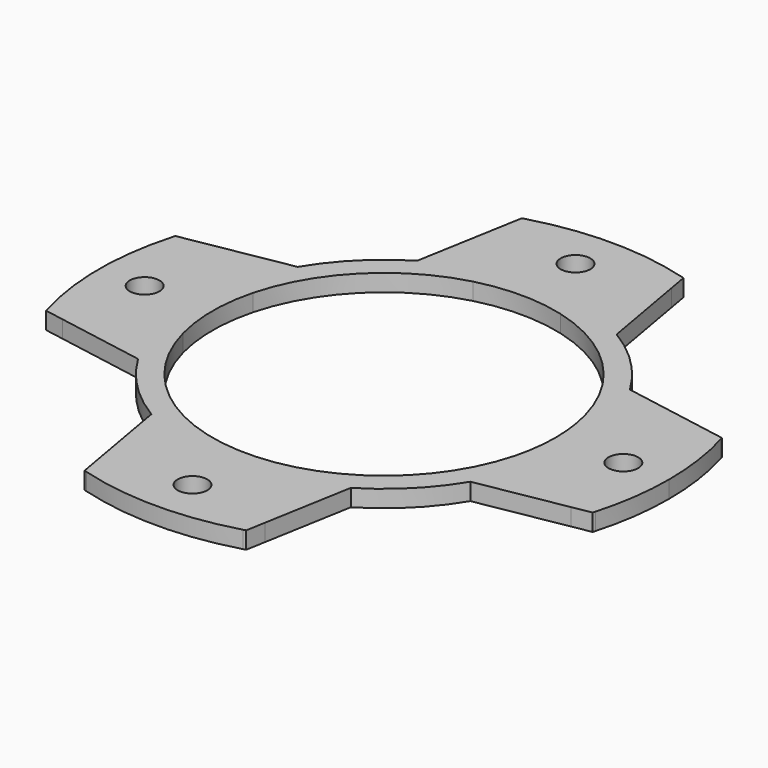
from build123d import *

# Parameters (mm, degrees)
F0_R     = 2.6
F1_DEPTH = 3


with BuildPart() as f1:
    # F0 (on Top) → F1 (new body)
    with BuildSketch(Plane.XY):
        with BuildLine():
            ThreePointArc((-29.1072619048, 7.6666357946), (-21.2839141137, 21.2839141137), (-7.6666357946, 29.1072619048))
            ThreePointArc((-7.6666357946, 29.1072619048), (-9.5767893278, 30.4550831025), (-11.2543201582, 32.0833333333))
            ThreePointArc((-11.2543201582, 32.0833333333), (-14.4500509711, 30.7765499518), (-17.4967765305, 29.1524066081))
            ThreePointArc((-17.4967765305, 29.1524066081), (-24.0416305603, 24.0416305603), (-29.1524066081, 17.4967765305))
            ThreePointArc((-29.1524066081, 17.4967765305), (-30.7765499518, 14.4500509711), (-32.0833333333, 11.2543201582))
            ThreePointArc((-32.0833333333, 11.2543201582), (-30.4550831025, 9.5767893278), (-29.1072619048, 7.6666357946))
        make_face()
        with BuildLine():
            ThreePointArc((-17.4967765305, 29.1524066081), (-14.4500509711, 30.7765499518), (-11.2543201582, 32.0833333333))
            ThreePointArc((-11.2543201582, 32.0833333333), (-14.4409191932, 37.9429255793), (-14.7721162582, 44.6047228746))
            Line((-14.7721162582, 44.6047228746), (-17.4967765305, 29.1524066081))
        make_face()
        with BuildLine():
            ThreePointArc((-11.2543201582, 32.0833333333), (0, 34), (11.2543201582, 32.0833333333))
            ThreePointArc((11.2543201582, 32.0833333333), (14.0323697637, 36.6997548346), (15, 42))
            ThreePointArc((15, 42), (14.942920488, 43.3073359512), (14.7721163614, 44.6047222892))
            ThreePointArc((14.7721163614, 44.6047222892), (14.3474025552, 46.3763043677), (13.7110559606, 48.0833333333))
            ThreePointArc((13.7110559606, 48.0833333333), (0, 50), (-13.7110559606, 48.0833333333))
            ThreePointArc((-13.7110559606, 48.0833333333), (-14.3474024685, 46.376304652), (-14.7721162582, 44.6047228746))
            ThreePointArc((-14.7721162582, 44.6047228746), (-14.4409191932, 37.9429255793), (-11.2543201582, 32.0833333333))
        make_face()
        with Locations((0, 42)):
            Circle(F0_R, mode=Mode.SUBTRACT)
        with BuildLine():
            ThreePointArc((15, 42), (14.0323697637, 36.6997548346), (11.2543201582, 32.0833333333))
            ThreePointArc((11.2543201582, 32.0833333333), (14.4500509711, 30.7765499518), (17.4967765305, 29.1524066081))
            Line((17.4967765305, 29.1524066081), (14.7721163614, 44.6047222892))
            ThreePointArc((14.7721163614, 44.6047222892), (14.942920488, 43.3073359512), (15, 42))
        make_face()
        with BuildLine():
            ThreePointArc((-7.6666357946, 29.1072619048), (0, 30.1), (7.6666357946, 29.1072619048))
            ThreePointArc((7.6666357946, 29.1072619048), (9.5767893278, 30.4550831025), (11.2543201582, 32.0833333333))
            ThreePointArc((11.2543201582, 32.0833333333), (0, 34), (-11.2543201582, 32.0833333333))
            ThreePointArc((-11.2543201582, 32.0833333333), (-9.5767893278, 30.4550831025), (-7.6666357946, 29.1072619048))
        make_face()
        with BuildLine():
            ThreePointArc((7.6666357946, 29.1072619048), (21.2839141137, 21.2839141137), (29.1072619048, 7.6666357946))
            ThreePointArc((29.1072619048, 7.6666357946), (30.4550831025, 9.5767893278), (32.0833333333, 11.2543201582))
            ThreePointArc((32.0833333333, 11.2543201582), (30.7765499518, 14.4500509711), (29.1524066081, 17.4967765305))
            ThreePointArc((29.1524066081, 17.4967765305), (24.0416305603, 24.0416305603), (17.4967765305, 29.1524066081))
            ThreePointArc((17.4967765305, 29.1524066081), (14.4500509711, 30.7765499518), (11.2543201582, 32.0833333333))
            ThreePointArc((11.2543201582, 32.0833333333), (9.5767893278, 30.4550831025), (7.6666357946, 29.1072619048))
        make_face()
        with BuildLine():
            ThreePointArc((29.1524066081, 17.4967765305), (30.7765499518, 14.4500509711), (32.0833333333, 11.2543201582))
            ThreePointArc((32.0833333333, 11.2543201582), (37.9429254774, 14.4409191646), (44.6047226662, 14.772116295))
            Line((44.6047226662, 14.772116295), (29.1524066081, 17.4967765305))
        make_face()
        with BuildLine():
            ThreePointArc((44.6047226662, 14.772116295), (37.9429254774, 14.4409191646), (32.0833333333, 11.2543201582))
            ThreePointArc((32.0833333333, 11.2543201582), (33.5174084121, 5.7081812632), (34, 0))
            ThreePointArc((34, 0), (33.5174084121, -5.7081812632), (32.0833333333, -11.2543201582))
            ThreePointArc((32.0833333333, -11.2543201582), (37.9429254774, -14.4409191646), (44.6047226662, -14.772116295))
            ThreePointArc((44.6047226662, -14.772116295), (46.3763045508, -14.3474024994), (48.0833333333, -13.7110559606))
            ThreePointArc((48.0833333333, -13.7110559606), (49.5185150558, -6.9221865524), (50, 0))
            ThreePointArc((50, 0), (49.5185150558, 6.9221865524), (48.0833333333, 13.7110559606))
            ThreePointArc((48.0833333333, 13.7110559606), (46.3763045508, 14.3474024994), (44.6047226662, 14.772116295))
        make_face()
        with Locations((42, 0)):
            Circle(F0_R, mode=Mode.SUBTRACT)
        with BuildLine():
            Line((-14.182910918, 47.9462724087), (-14.7721162582, 44.6047228746))
            ThreePointArc((-14.7721162582, 44.6047228746), (-14.3474024685, 46.376304652), (-13.7110559606, 48.0833333333))
            ThreePointArc((-13.7110559606, 48.0833333333), (-13.9471518053, 48.0153824989), (-14.182910918, 47.9462724087))
        make_face()
        with BuildLine():
            ThreePointArc((13.7110559606, 48.0833333333), (14.3474025552, 46.3763043677), (14.7721163614, 44.6047222892))
            Line((14.7721163614, 44.6047222892), (14.182910918, 47.9462724087))
            ThreePointArc((14.182910918, 47.9462724087), (13.9471518053, 48.0153824989), (13.7110559606, 48.0833333333))
        make_face()
        with BuildLine():
            ThreePointArc((44.6047226662, -14.772116295), (37.9429254774, -14.4409191646), (32.0833333333, -11.2543201582))
            ThreePointArc((32.0833333333, -11.2543201582), (30.7765499518, -14.4500509711), (29.1524066081, -17.4967765305))
            Line((29.1524066081, -17.4967765305), (44.6047226662, -14.772116295))
        make_face()
        with BuildLine():
            ThreePointArc((32.0833333333, -11.2543201582), (30.4550831025, -9.5767893278), (29.1072619048, -7.6666357946))
            ThreePointArc((29.1072619048, -7.6666357946), (21.2839141137, -21.2839141137), (7.6666357946, -29.1072619048))
            ThreePointArc((7.6666357946, -29.1072619048), (9.5767893278, -30.4550831025), (11.2543201582, -32.0833333333))
            ThreePointArc((11.2543201582, -32.0833333333), (14.4500509711, -30.7765499518), (17.4967765305, -29.1524066081))
            ThreePointArc((17.4967765305, -29.1524066081), (24.0416305603, -24.0416305603), (29.1524066081, -17.4967765305))
            ThreePointArc((29.1524066081, -17.4967765305), (30.7765499518, -14.4500509711), (32.0833333333, -11.2543201582))
        make_face()
        with BuildLine():
            ThreePointArc((29.1072619048, 7.6666357946), (29.8507837697, 3.8653212458), (30.1, 0))
            ThreePointArc((30.1, 0), (29.8507837697, -3.8653212458), (29.1072619048, -7.6666357946))
            ThreePointArc((29.1072619048, -7.6666357946), (30.4550831025, -9.5767893278), (32.0833333333, -11.2543201582))
            ThreePointArc((32.0833333333, -11.2543201582), (33.5174084121, -5.7081812632), (34, 0))
            ThreePointArc((34, 0), (33.5174084121, 5.7081812632), (32.0833333333, 11.2543201582))
            ThreePointArc((32.0833333333, 11.2543201582), (30.4550831025, 9.5767893278), (29.1072619048, 7.6666357946))
        make_face()
        with BuildLine():
            ThreePointArc((48.0833333333, -13.7110559606), (46.3763045508, -14.3474024994), (44.6047226662, -14.772116295))
            Line((44.6047226662, -14.772116295), (47.9462724087, -14.182910918))
            ThreePointArc((47.9462724087, -14.182910918), (48.0153824989, -13.9471518053), (48.0833333333, -13.7110559606))
        make_face()
        with BuildLine():
            Line((47.9462724087, 14.182910918), (44.6047226662, 14.772116295))
            ThreePointArc((44.6047226662, 14.772116295), (46.3763045508, 14.3474024994), (48.0833333333, 13.7110559606))
            ThreePointArc((48.0833333333, 13.7110559606), (48.0153824989, 13.9471518053), (47.9462724087, 14.182910918))
        make_face()
        with BuildLine():
            ThreePointArc((11.2543201582, -32.0833333333), (9.5767893278, -30.4550831025), (7.6666357946, -29.1072619048))
            ThreePointArc((7.6666357946, -29.1072619048), (0, -30.1), (-7.6666357946, -29.1072619048))
            ThreePointArc((-7.6666357946, -29.1072619048), (-9.5767893278, -30.4550831025), (-11.2543201582, -32.0833333333))
            ThreePointArc((-11.2543201582, -32.0833333333), (0, -34), (11.2543201582, -32.0833333333))
        make_face()
        with BuildLine():
            ThreePointArc((15, -42), (14.0323697637, -36.6997548346), (11.2543201582, -32.0833333333))
            ThreePointArc((11.2543201582, -32.0833333333), (0, -34), (-11.2543201582, -32.0833333333))
            ThreePointArc((-11.2543201582, -32.0833333333), (-14.4409191558, -37.942925446), (-14.7721163063, -44.6047226018))
            ThreePointArc((-14.7721163063, -44.6047226018), (-14.3474025089, -46.3763045195), (-13.7110559606, -48.0833333333))
            ThreePointArc((-13.7110559606, -48.0833333333), (0, -50), (13.7110559606, -48.0833333333))
            ThreePointArc((13.7110559606, -48.0833333333), (14.3474024994, -46.3763045508), (14.772116295, -44.6047226662))
            ThreePointArc((14.772116295, -44.6047226662), (14.9429204713, -43.3073361418), (15, -42))
        make_face()
        with Locations((0, -42)):
            Circle(F0_R, mode=Mode.SUBTRACT)
        with BuildLine():
            ThreePointArc((-14.7721163063, -44.6047226018), (-14.4409191558, -37.942925446), (-11.2543201582, -32.0833333333))
            ThreePointArc((-11.2543201582, -32.0833333333), (-14.4500509711, -30.7765499518), (-17.4967765305, -29.1524066081))
            Line((-17.4967765305, -29.1524066081), (-14.7721163063, -44.6047226018))
        make_face()
        with BuildLine():
            ThreePointArc((-11.2543201582, -32.0833333333), (-9.5767893278, -30.4550831025), (-7.6666357946, -29.1072619048))
            ThreePointArc((-7.6666357946, -29.1072619048), (-21.2839141137, -21.2839141137), (-29.1072619048, -7.6666357946))
            ThreePointArc((-29.1072619048, -7.6666357946), (-30.4550831025, -9.5767893278), (-32.0833333333, -11.2543201582))
            ThreePointArc((-32.0833333333, -11.2543201582), (-30.7765499518, -14.4500509711), (-29.1524066081, -17.4967765305))
            ThreePointArc((-29.1524066081, -17.4967765305), (-24.0416305603, -24.0416305603), (-17.4967765305, -29.1524066081))
            ThreePointArc((-17.4967765305, -29.1524066081), (-14.4500509711, -30.7765499518), (-11.2543201582, -32.0833333333))
        make_face()
        with BuildLine():
            ThreePointArc((17.4967765305, -29.1524066081), (14.4500509711, -30.7765499518), (11.2543201582, -32.0833333333))
            ThreePointArc((11.2543201582, -32.0833333333), (14.0323697637, -36.6997548346), (15, -42))
            ThreePointArc((15, -42), (14.9429204713, -43.3073361418), (14.772116295, -44.6047226662))
            Line((14.772116295, -44.6047226662), (17.4967765305, -29.1524066081))
        make_face()
        with BuildLine():
            Line((14.182910918, -47.9462724087), (14.772116295, -44.6047226662))
            ThreePointArc((14.772116295, -44.6047226662), (14.3474024994, -46.3763045508), (13.7110559606, -48.0833333333))
            ThreePointArc((13.7110559606, -48.0833333333), (13.9471518053, -48.0153824989), (14.182910918, -47.9462724087))
        make_face()
        with BuildLine():
            ThreePointArc((-13.7110559606, -48.0833333333), (-14.3474025089, -46.3763045195), (-14.7721163063, -44.6047226018))
            Line((-14.7721163063, -44.6047226018), (-14.182910918, -47.9462724087))
            ThreePointArc((-14.182910918, -47.9462724087), (-13.9471518053, -48.0153824989), (-13.7110559606, -48.0833333333))
        make_face()
        with BuildLine():
            ThreePointArc((-32.0833333333, -11.2543201582), (-34, 0), (-32.0833333333, 11.2543201582))
            ThreePointArc((-32.0833333333, 11.2543201582), (-37.9429254774, 14.4409191646), (-44.6047226662, 14.772116295))
            ThreePointArc((-44.6047226662, 14.772116295), (-46.3763045508, 14.3474024994), (-48.0833333333, 13.7110559606))
            ThreePointArc((-48.0833333333, 13.7110559606), (-50, 0), (-48.0833333333, -13.7110559606))
            ThreePointArc((-48.0833333333, -13.7110559606), (-46.3763045508, -14.3474024994), (-44.6047226662, -14.772116295))
            ThreePointArc((-44.6047226662, -14.772116295), (-37.9429254774, -14.4409191646), (-32.0833333333, -11.2543201582))
        make_face()
        with Locations((-42, 0)):
            Circle(F0_R, mode=Mode.SUBTRACT)
        with BuildLine():
            ThreePointArc((-29.1524066081, -17.4967765305), (-30.7765499518, -14.4500509711), (-32.0833333333, -11.2543201582))
            ThreePointArc((-32.0833333333, -11.2543201582), (-37.9429254774, -14.4409191646), (-44.6047226662, -14.772116295))
            Line((-44.6047226662, -14.772116295), (-29.1524066081, -17.4967765305))
        make_face()
        with BuildLine():
            ThreePointArc((-29.1072619048, -7.6666357946), (-30.1, 0), (-29.1072619048, 7.6666357946))
            ThreePointArc((-29.1072619048, 7.6666357946), (-30.4550831025, 9.5767893278), (-32.0833333333, 11.2543201582))
            ThreePointArc((-32.0833333333, 11.2543201582), (-34, 0), (-32.0833333333, -11.2543201582))
            ThreePointArc((-32.0833333333, -11.2543201582), (-30.4550831025, -9.5767893278), (-29.1072619048, -7.6666357946))
        make_face()
        with BuildLine():
            ThreePointArc((-44.6047226662, 14.772116295), (-37.9429254774, 14.4409191646), (-32.0833333333, 11.2543201582))
            ThreePointArc((-32.0833333333, 11.2543201582), (-30.7765499518, 14.4500509711), (-29.1524066081, 17.4967765305))
            Line((-29.1524066081, 17.4967765305), (-44.6047226662, 14.772116295))
        make_face()
        with BuildLine():
            ThreePointArc((-48.0833333333, 13.7110559606), (-46.3763045508, 14.3474024994), (-44.6047226662, 14.772116295))
            Line((-44.6047226662, 14.772116295), (-47.9462724087, 14.182910918))
            ThreePointArc((-47.9462724087, 14.182910918), (-48.0153824989, 13.9471518053), (-48.0833333333, 13.7110559606))
        make_face()
        with BuildLine():
            Line((-47.9462724087, -14.182910918), (-44.6047226662, -14.772116295))
            ThreePointArc((-44.6047226662, -14.772116295), (-46.3763045508, -14.3474024994), (-48.0833333333, -13.7110559606))
            ThreePointArc((-48.0833333333, -13.7110559606), (-48.0153824989, -13.9471518053), (-47.9462724087, -14.182910918))
        make_face()
    extrude(amount=F1_DEPTH)


solid = f1.part
